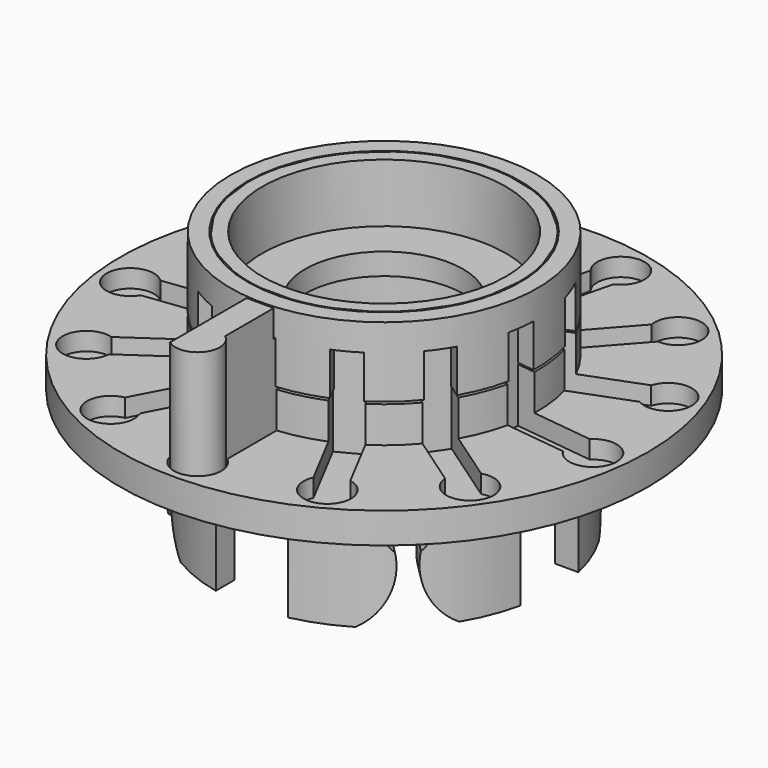
from build123d import *

# Parameters (mm, degrees)
SKETCH_R              = 29.25
PAD_DEPTH             = 1.7
SKETCH001_R           = 17
PAD001_DEPTH          = 12
SKETCH002_R           = 18.75
PAD002_DEPTH          = 13.5
SKETCH013_R           = 16.25
POCKET_DEPTH          = 10.5
SKETCH014_R           = 14.75
POCKET001_DEPTH       = 9.5
SKETCH015_R           = 13.5
POCKET002_DEPTH       = 6.5
SKETCH016_R           = 8.75
POCKET003_DEPTH       = 22.401
POCKET003_DEPTH_BACK  = 6.501
POCKET004_DEPTH       = 8
POCKET005_DEPTH       = 2
POCKET005_DEPTH_BACK  = 14
POLARPATTERN_COUNT    = 13
POCKET006_DEPTH       = 216.634656
POLARPATTERN001_COUNT = 4
SKETCH021_W           = 8
SKETCH021_H           = 10
POCKET007_DEPTH       = 204.518909
POLARPATTERN002_COUNT = 4
PAD003_DEPTH          = 14
SKETCH023_W           = 3
SKETCH023_H           = 2.125
POCKET008_DEPTH       = 3
PAD004_DEPTH          = 7.75
BINDER002_FACE1_W     = 2.125
BINDER002_FACE1_H     = 3
POCKET009_DEPTH       = 102.158649
POLARPATTERN003_COUNT = 13


with BuildPart() as body:
    # Sketch → Pad (new body, symmetric)
    with BuildSketch(Plane.XY):
        Circle(SKETCH_R)
    extrude(amount=PAD_DEPTH, both=True)

    # Sketch001 (on Face3 of Pad) → Pad001 (join)
    with BuildSketch(Plane.XY.offset(1.7)):
        Circle(SKETCH001_R)
    extrude(amount=PAD001_DEPTH)

    # Sketch002 (on Face2 of Pad001) → Pad002 (join)
    with BuildSketch(Plane(origin=(0, 0, -1.7), x_dir=(1, 0, 0), z_dir=(0, 0, -1))):
        Circle(SKETCH002_R)
    extrude(amount=PAD002_DEPTH)

    # Sketch013 (on Face6 of Pad002) → Pocket (cut)
    with BuildSketch(Plane(origin=(0, 0, -15.2), x_dir=(1, 0, 0), z_dir=(0, 0, -1))):
        Circle(SKETCH013_R)
    extrude(amount=-POCKET_DEPTH, mode=Mode.SUBTRACT)

    # Sketch014 (on Face9 of Pocket) → Pocket001 (cut)
    with BuildSketch(Plane(origin=(0, 0, -4.7), x_dir=(1, 0, 0), z_dir=(0, 0, -1))):
        Circle(SKETCH014_R)
    extrude(amount=-POCKET001_DEPTH, mode=Mode.SUBTRACT)

    # Sketch015 (on Face7 of Pocket001) → Pocket002 (cut)
    with BuildSketch(Plane.XY.offset(13.7)):
        Circle(SKETCH015_R)
    extrude(amount=-POCKET002_DEPTH, mode=Mode.SUBTRACT)

    # Sketch016 (on Face11 of Pocket002) → Pocket003 (cut, two sides)
    with BuildSketch(Plane.XY.offset(7.2)) as pocket003_sk:
        Circle(SKETCH016_R)
    extrude(amount=-POCKET003_DEPTH, mode=Mode.SUBTRACT)
    extrude(pocket003_sk.sketch, amount=POCKET003_DEPTH_BACK, mode=Mode.SUBTRACT)

    # Sketch017 (on Face7 of Pocket003) → Pocket004 (cut)
    with BuildSketch(Plane.XY.offset(13.7)):
        with BuildLine():
            ThreePointArc((0, 17.5), (-17.5, 0), (0, -17.5))
            ThreePointArc((0, -17.5), (17.5, 0), (0, 17.5))
        make_face()
        with BuildLine():
            ThreePointArc((0, -15), (15, 0), (0, 15))
            ThreePointArc((0, 15), (-15, 0), (0, -15))
        make_face(mode=Mode.SUBTRACT)
    extrude(amount=-POCKET004_DEPTH, mode=Mode.SUBTRACT)

    # Sketch018 (on Face3 of Pocket004) → Pocket005 (cut, two sides)
    with BuildSketch(Plane.XY.offset(1.7)) as pocket005_sk:
        with BuildLine():
            ThreePointArc((-1.625, -23.763447), (0, -28.45), (1.625, -23.763447))
            Line((1.625, -14.911719), (1.625, -23.763447))
            Line((-1.625, -14.911719), (1.625, -14.911719))
            Line((-1.625, -23.763447), (-1.625, -14.911719))
        make_face()
    pocket005 = extrude(amount=-POCKET005_DEPTH, mode=Mode.SUBTRACT) + extrude(pocket005_sk.sketch, amount=POCKET005_DEPTH_BACK, mode=Mode.SUBTRACT)

    # PolarPattern: Pocket005 ×13 about axis
    polarpattern_axis = Axis((0, 0, 1.7), (0, 0, 1))
    for i in range(1, POLARPATTERN_COUNT):
        add(pocket005.rotate(polarpattern_axis, i * 360 / POLARPATTERN_COUNT), mode=Mode.SUBTRACT)

    # Sketch020 (on DatumPlane) → Pocket006 (cut, through all)
    with BuildSketch(Plane(origin=(0, 0, -15.2), x_dir=(0.707107, 0.707107, 0), z_dir=(-0.707107, 0.707107, 0))):
        with BuildLine():
            ThreePointArc((-1.134009, -7.35257), (0, -11), (1.134009, -7.35257))
            ThreePointArc((4.5, 0), (1.625533, -3.130832), (1.134009, -7.35257))
            Line((4.5, 2), (4.5, 0))
            Line((-4.5, 2), (4.5, 2))
            Line((-4.5, 0), (-4.5, 2))
            ThreePointArc((-1.134009, -7.35257), (-1.625533, -3.130832), (-4.5, 0))
        make_face()
    pocket006 = extrude(amount=-POCKET006_DEPTH, mode=Mode.SUBTRACT)

    # PolarPattern001: Pocket006 ×4 about axis
    polarpattern001_axis = Axis((0, 0, 0), (0, 0, 1))
    for i in range(1, POLARPATTERN001_COUNT):
        add(pocket006.rotate(polarpattern001_axis, i * 360 / POLARPATTERN001_COUNT), mode=Mode.SUBTRACT)

    # Sketch021 → Pocket007 (cut, through all)
    with BuildSketch(Plane.XZ):
        with Locations((0, -10.2)):
            Rectangle(SKETCH021_W, SKETCH021_H)
    pocket007 = extrude(amount=-POCKET007_DEPTH, mode=Mode.SUBTRACT)

    # PolarPattern002: Pocket007 ×4 about axis
    polarpattern002_axis = Axis((0, 0, 0), (0, 0, 1))
    for i in range(1, POLARPATTERN002_COUNT):
        add(pocket007.rotate(polarpattern002_axis, i * 360 / POLARPATTERN002_COUNT), mode=Mode.SUBTRACT)


with BuildPart() as obj1:
    # Sketch022 (on Face1 of Binder) → Pad003 (new body)
    with BuildSketch(Plane.XY.offset(-0.3)):
        with BuildLine():
            Line((-1.5, -15.036719), (1.5, -15.036719))
            Line((1.5, -15.036719), (1.5, -23.888447))
            ThreePointArc((-1.5, -27.761553), (1.936553, -27.325), (1.5, -23.888447))
            Line((-1.5, -27.761553), (-1.5, -23.888447))
            Line((-1.5, -15.036719), (-1.5, -23.888447))
        make_face()
    extrude(amount=PAD003_DEPTH)

    # Sketch023 (on Face5 of Pad003) → Pocket008 (cut)
    with BuildSketch(Plane.XY.offset(13.7)):
        with Locations((0, -16.099219)):
            Rectangle(SKETCH023_W, SKETCH023_H)
    extrude(amount=-POCKET008_DEPTH, mode=Mode.SUBTRACT)


with BuildPart() as ring:
    # Sketch024 (on Face4 of Binder001) → Pad004 (new body)
    with BuildSketch(Plane.XY.offset(13.7)):
        with BuildLine():
            ThreePointArc((17, 0), (0, 17), (-17, 0))
            ThreePointArc((-17, 0), (0, -17), (17, 0))
        make_face()
        with BuildLine():
            ThreePointArc((15.125, 0), (0, 15.125), (-15.125, 0))
            ThreePointArc((-15.125, 0), (0, -15.125), (15.125, 0))
        make_face(mode=Mode.SUBTRACT)
    extrude(amount=-PAD004_DEPTH)

    # Binder002 Face1 → Pocket009 (cut, through all)
    with BuildSketch(Plane(origin=(0, -16.099219, 10.7), x_dir=(0, 1, 0), z_dir=(0, 0, 1))):
        Rectangle(BINDER002_FACE1_W, BINDER002_FACE1_H)
    pocket009 = extrude(amount=-POCKET009_DEPTH, mode=Mode.SUBTRACT)

    # PolarPattern003: Pocket009 ×13 about axis
    polarpattern003_axis = Axis((0, 0, 0), (0, 0, 1))
    for i in range(1, POLARPATTERN003_COUNT):
        add(pocket009.rotate(polarpattern003_axis, i * 360 / POLARPATTERN003_COUNT), mode=Mode.SUBTRACT)


solid = Compound([body.part, obj1.part, ring.part])
